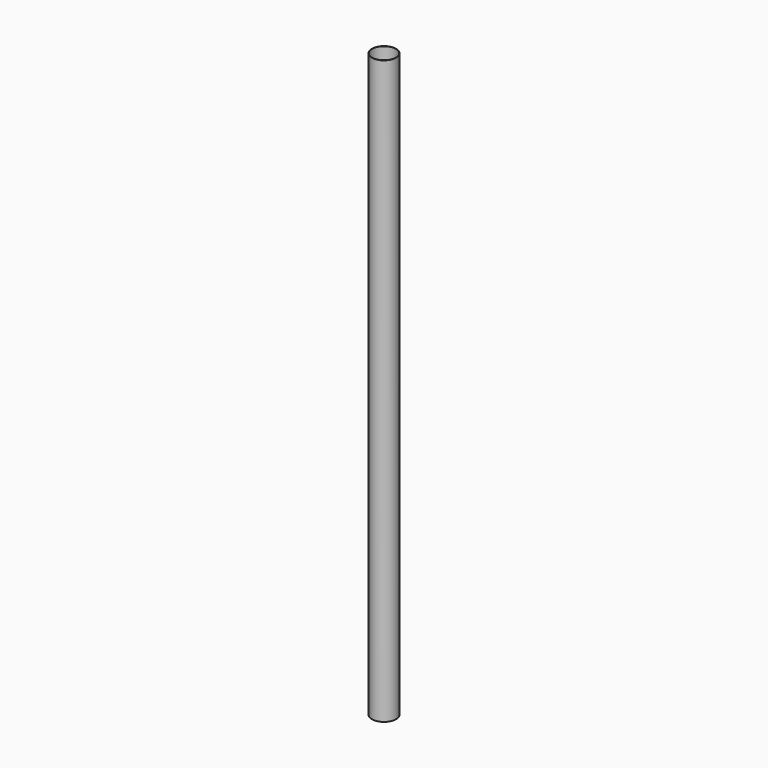
from build123d import *

# Parameters (mm, degrees)
F0_W     = 16.5
F0_H     = 792.755057
F3_D     = 32.2
F3_DEPTH = 800


with BuildPart() as f1:
    # F0 (on Front) → F1 (revolve)
    with BuildSketch(Plane.XZ):
        with Locations((7.068663, -137.068187)):
            Rectangle(F0_W, F0_H)
    revolve(axis=Axis((-1.181337, 0, -137.068187), (0, 0, -1)))

    # F3
    with Locations(Plane.XY.offset(259.309341)):
        with Locations((-1.181337, 0)):
            Hole(F3_D / 2, depth=F3_DEPTH)


solid = f1.part
